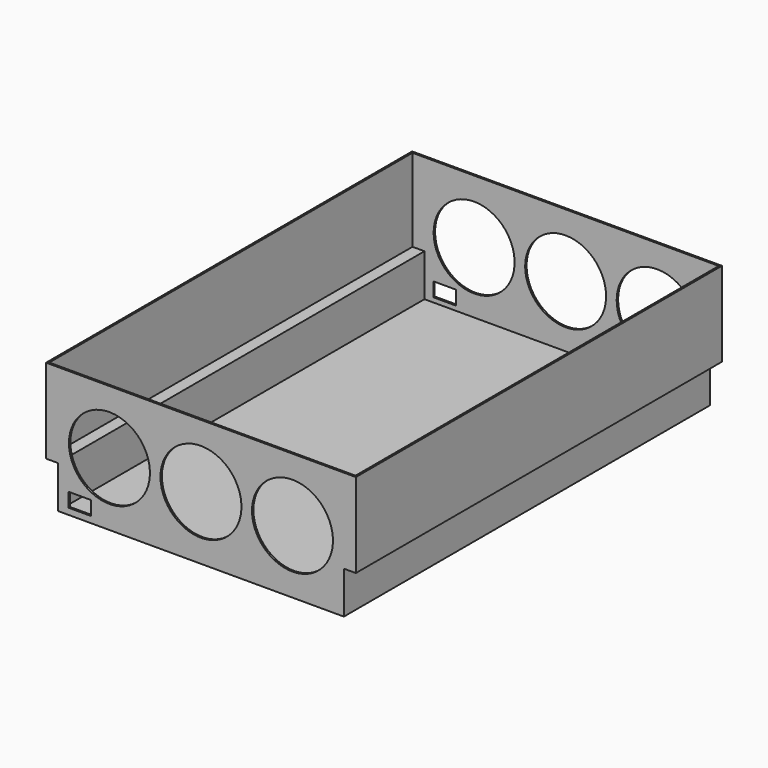
from build123d import *

# Parameters (mm, degrees)
F0_W     = 32
F0_H     = 20
F1_DEPTH = 650
F2_T     = -2.5
F3_D     = 115
F4_DEPTH = 25


with BuildPart() as f1:
    # F0 (on Front) → F1 (new body)
    with BuildSketch(Plane.XZ):
        Polygon((217.8639564514, 95.5699048042), (-222.1360435486, 95.5699048042), (-222.1360435486, -24.4300951958), (-205.1360435486, -24.4300951958), (-205.1360435486, -84.4300951958), (200.8639564514, -84.4300951958), (200.8639564514, -24.4300951958), (217.8639564514, -24.4300951958), align=None)
        with Locations((-174.1360435486, -65.4300951958)):
            Rectangle(F0_W, F0_H, mode=Mode.SUBTRACT)
    extrude(amount=F1_DEPTH)

    # F2
    f2_openings = [f1.faces().sort_by_distance(p)[0] for p in [
        (-2.136044, -325, 95.569905),
    ]]
    offset(amount=F2_T, openings=f2_openings, kind=Kind.INTERSECTION)

    # F3 (through all)
    with Locations(Plane(origin=(0, 0, 0), x_dir=(1, 0, 0), z_dir=(0, 1, 0))):
        with Locations((-132.1360435486, -5.5699048042), (-2.1360435486, -5.5699048042), (127.8639564514, -5.5699048042)):
            Hole(F3_D / 2)

    # F4 (cut): a face of the model
    f4_faces = [f1.faces().sort_by_distance(p)[0] for p in [
        (-174.1360435486, -325, -52.9300951958),
    ]]
    extrude(f4_faces, amount=-F4_DEPTH, mode=Mode.SUBTRACT)


solid = f1.part
